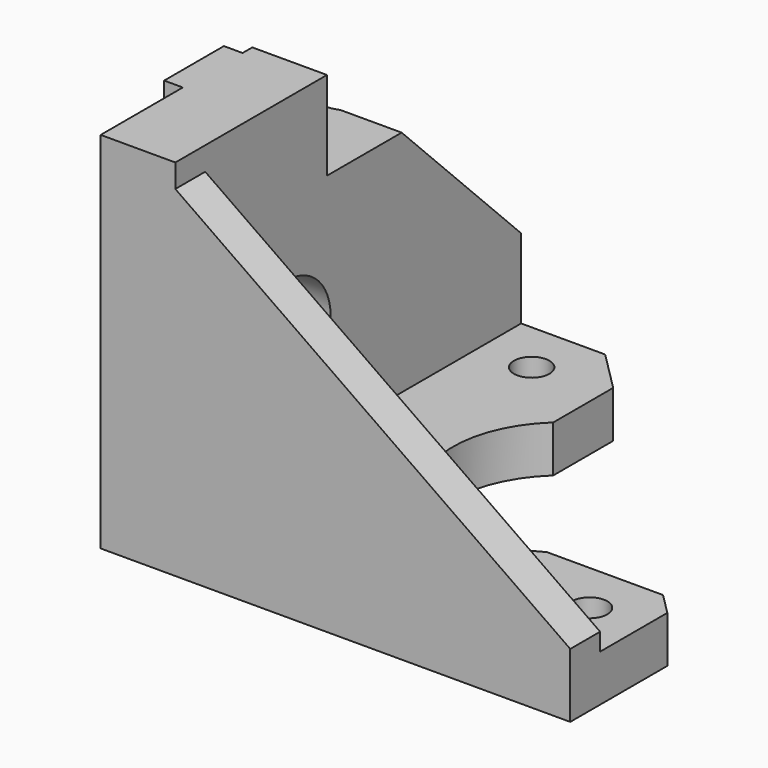
from build123d import *

# Parameters (mm, degrees)
CYLINDER002_R           = 3.05
CYLINDER002_DEPTH       = 10
CYLINDER004_R           = 1.9
CYLINDER004_DEPTH       = 20
CYLINDER005_R           = 1.9
CYLINDER005_DEPTH       = 20
CYLINDER003_R           = 1.9
CYLINDER003_DEPTH       = 20
CYLINDER006_R           = 11.8
CYLINDER006_DEPTH       = 10
CYLINDER001_R           = 5.8
CYLINDER001_DEPTH       = 10
CUBE004_W               = 10
CUBE004_H               = 70
CUBE004_DEPTH           = 40
CUBE005_W               = 40
CUBE005_H               = 40
CUBE005_DEPTH           = 10
CUBE006_W               = 15
CUBE006_H               = 15
CUBE006_DEPTH           = 10
CUBE007_W               = 10
CUBE007_H               = 10
CUBE007_DEPTH           = 10
CUBE007_PLACEMENT_ANGLE = 45
CUBE008_W               = 10
CUBE008_H               = 10
CUBE008_DEPTH           = 10
CUBE008_PLACEMENT_ANGLE = 45
CUBE009_W               = 10
CUBE009_H               = 20
CUBE009_DEPTH           = 10
CUBE010_W               = 10
CUBE010_H               = 40
CUBE010_DEPTH           = 40
CUBE010_PLACEMENT_ANGLE = 45
CUBE011_W               = 10
CUBE011_H               = 10
CUBE011_DEPTH           = 39
CUBE011_PLACEMENT_ANGLE = 45
CYLINDER_R              = 3.5
CYLINDER_DEPTH          = 39
CUBE003_W               = 10
CUBE003_H               = 70
CUBE003_DEPTH           = 40
CUBE003_ROLL_ANGLE      = -34.999976
CUBE003_PLACEMENT_ANGLE = -90
CUBE002_W               = 4
CUBE002_H               = 8
CUBE002_DEPTH           = 39
CUBE001_W               = 60
CUBE001_H               = 60
CUBE001_DEPTH           = 60
CUBE_W                  = 50.3
CUBE_H                  = 46.3
CUBE_DEPTH              = 39


with BuildPart() as cylinder002:
    # cylinder002 → cylinder002 (new body)
    with BuildSketch(Plane(origin=(-3, 15, 16), x_dir=(0, 0, -1), z_dir=(1, 0, 0))):
        Circle(CYLINDER002_R)
    extrude(amount=CYLINDER002_DEPTH)


with BuildPart() as cylinder004:
    # cylinder004 → cylinder004 (new body)
    with BuildSketch(Plane(origin=(31, 0, -0.1), x_dir=(1, 0, 0), z_dir=(0, 0, 1))):
        Circle(CYLINDER004_R)
    extrude(amount=CYLINDER004_DEPTH)


with BuildPart() as cylinder005:
    # cylinder005 → cylinder005 (new body)
    with BuildSketch(Plane(origin=(0, 31, -0.1), x_dir=(1, 0, 0), z_dir=(0, 0, 1))):
        Circle(CYLINDER005_R)
    extrude(amount=CYLINDER005_DEPTH)


with BuildPart() as matrix_union:
    # cylinder003 → cylinder003 (new body)
    with BuildSketch(Plane.XY.offset(-0.1)):
        Circle(CYLINDER003_R)
    extrude(amount=CYLINDER003_DEPTH)

    # Matrix_Union: union cylinder004, cylinder005
    add(cylinder004.part)
    add(cylinder005.part)


with BuildPart() as matrix_union_1:
    # Matrix_Union placement: moved
    add(matrix_union.part.moved(Location((13.65, 9.65, -0.1))))


with BuildPart() as cylinder006:
    # cylinder006 → cylinder006 (new body)
    with BuildSketch(Plane(origin=(29.3, 25.3, -0.1), x_dir=(1, 0, 0), z_dir=(0, 0, 1))):
        Circle(CYLINDER006_R)
    extrude(amount=CYLINDER006_DEPTH)


with BuildPart() as group002:
    # cylinder001 → cylinder001 (new body)
    with BuildSketch(Plane(origin=(4.4, 15, 16), x_dir=(0, 0, -1), z_dir=(1, 0, 0))):
        Circle(CYLINDER001_R)
    extrude(amount=CYLINDER001_DEPTH)

    # Group002: union cylinder002, Matrix_Union, cylinder006
    add(cylinder002.part)
    add(matrix_union_1.part)
    add(cylinder006.part)


with BuildPart() as cube004:
    # cube004 → cube004 (new body)
    with BuildSketch(Plane(origin=(8, 5, 36.5), x_dir=(0, -1, 0), z_dir=(0, 0, 1))):
        with Locations((5, 35)):
            Rectangle(CUBE004_W, CUBE004_H)
    extrude(amount=CUBE004_DEPTH)


with BuildPart() as cube005:
    # cube005 → cube005 (new body)
    with BuildSketch(Plane(origin=(21.3, 17.3, -0.1), x_dir=(1, 0, 0), z_dir=(0, 0, 1))):
        with Locations((20, 20)):
            Rectangle(CUBE005_W, CUBE005_H)
    extrude(amount=CUBE005_DEPTH)


with BuildPart() as cube006:
    # cube006 → cube006 (new body)
    with BuildSketch(Plane(origin=(34.3, 15.3, -0.1), x_dir=(1, 0, 0), z_dir=(0, 0, 1))):
        with Locations((7.5, 7.5)):
            Rectangle(CUBE006_W, CUBE006_H)
    extrude(amount=CUBE006_DEPTH)


with BuildPart() as cube007:
    # cube007 → cube007 (new body)
    with BuildSketch(Plane.XY):
        with Locations((5, 5)):
            Rectangle(CUBE007_W, CUBE007_H)
    extrude(amount=CUBE007_DEPTH)


with BuildPart() as cube007_1:
    # cube007 placement: moved
    add(cube007.part.moved(Location((50.3, 13, -0.1))).rotate(Axis((50.3, 13, -0.1), (0, 0, 1)), CUBE007_PLACEMENT_ANGLE))


with BuildPart() as cube008:
    # cube008 → cube008 (new body)
    with BuildSketch(Plane.XY):
        with Locations((5, 5)):
            Rectangle(CUBE008_W, CUBE008_H)
    extrude(amount=CUBE008_DEPTH)


with BuildPart() as cube008_1:
    # cube008 placement: moved
    add(cube008.part.moved(Location((17, 46.3, -0.1))).rotate(Axis((17, 46.3, -0.1), (0, 0, -1)), CUBE008_PLACEMENT_ANGLE))


with BuildPart() as cube009:
    # cube009 → cube009 (new body)
    with BuildSketch(Plane(origin=(-0.1, 20.3, 29.5), x_dir=(1, 0, 0), z_dir=(0, 0, 1))):
        with Locations((5, 10)):
            Rectangle(CUBE009_W, CUBE009_H)
    extrude(amount=CUBE009_DEPTH)


with BuildPart() as cube010:
    # cube010 → cube010 (new body)
    with BuildSketch(Plane.XY):
        with Locations((5, 20)):
            Rectangle(CUBE010_W, CUBE010_H)
    extrude(amount=CUBE010_DEPTH)


with BuildPart() as cube010_1:
    # cube010 placement: moved
    add(cube010.part.moved(Location((-0.1, 30.3, 29.5))).rotate(Axis((-0.1, 30.3, 29.5), (-1, 0, 0)), CUBE010_PLACEMENT_ANGLE))


with BuildPart() as cube011:
    # cube011 → cube011 (new body)
    with BuildSketch(Plane.XY):
        with Locations((5, 5)):
            Rectangle(CUBE011_W, CUBE011_H)
    extrude(amount=CUBE011_DEPTH)


with BuildPart() as cube011_1:
    # cube011 placement: moved
    add(cube011.part.moved(Location((0, 42.3, -0.1))).rotate(Axis((0, 42.3, -0.1), (0, 0, 1)), CUBE011_PLACEMENT_ANGLE))


with BuildPart() as cylinder:
    # cylinder → cylinder (new body)
    with BuildSketch(Plane(origin=(0, 33.5, -0.1), x_dir=(1, 0, 0), z_dir=(0, 0, 1))):
        Circle(CYLINDER_R)
    extrude(amount=CYLINDER_DEPTH)


with BuildPart() as union:
    # cube003 → cube003 (new body)
    with BuildSketch(Plane.XY):
        with Locations((5, 35)):
            Rectangle(CUBE003_W, CUBE003_H)
    extrude(amount=CUBE003_DEPTH)


with BuildPart() as union_1:
    # cube003 roll: moved
    add(union.part.rotate(Axis((0, 0, 0), (1, 0, 0)), CUBE003_ROLL_ANGLE))


with BuildPart() as union_2:
    # cube003 placement: moved
    add(union_1.part.moved(Location((8, 5, 36.5))).rotate(Axis((8, 5, 36.5), (0, 0, 1)), CUBE003_PLACEMENT_ANGLE))

    # Group001: union cube004, cube005, cube006, cube007, cube008, cube009, cube010, cube011, cylinder
    add(cube004.part)
    add(cube005.part)
    add(cube006.part)
    add(cube007_1.part)
    add(cube008_1.part)
    add(cube009.part)
    add(cube010_1.part)
    add(cube011_1.part)
    add(cylinder.part)

    # union: union Group002
    add(group002.part)


with BuildPart() as cube002:
    # cube002 → cube002 (new body)
    with BuildSketch(Plane(origin=(-2, 11, 0), x_dir=(1, 0, 0), z_dir=(0, 0, 1))):
        with Locations((2, 4)):
            Rectangle(CUBE002_W, CUBE002_H)
    extrude(amount=CUBE002_DEPTH)


with BuildPart() as cube001:
    # cube001 → cube001 (new body)
    with BuildSketch(Plane(origin=(8, 4, 5), x_dir=(1, 0, 0), z_dir=(0, 0, 1))):
        with Locations((30, 30)):
            Rectangle(CUBE001_W, CUBE001_H)
    extrude(amount=CUBE001_DEPTH)


with BuildPart() as difference001:
    # cube → cube (new body)
    with BuildSketch(Plane.XY):
        with Locations((25.15, 23.15)):
            Rectangle(CUBE_W, CUBE_H)
    extrude(amount=CUBE_DEPTH)

    # difference: cut cube001
    add(cube001.part, mode=Mode.SUBTRACT)

    # Group: union cube002
    add(cube002.part)

    # difference001: cut union
    add(union_2.part, mode=Mode.SUBTRACT)


solid = difference001.part
